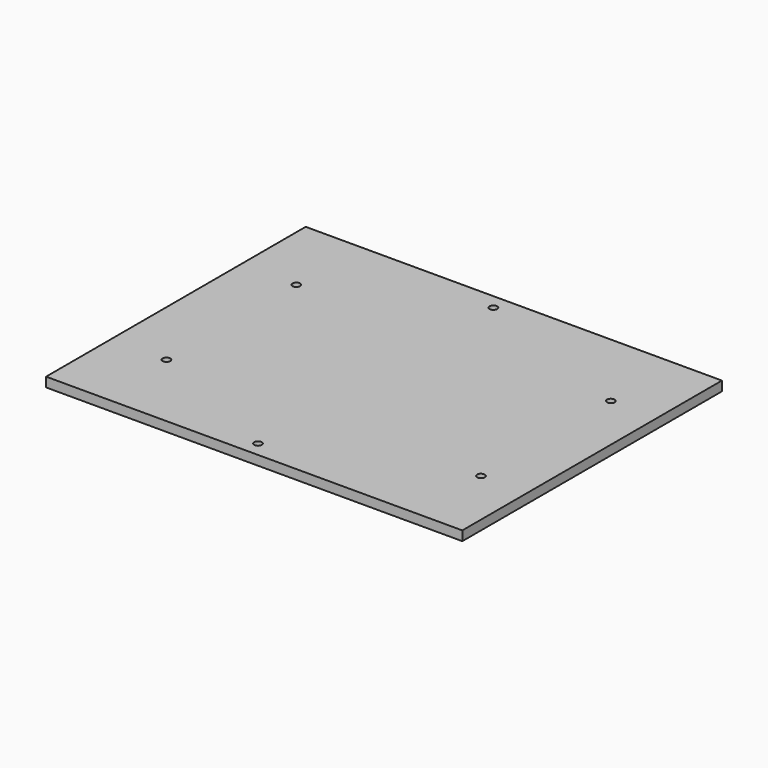
from build123d import *

# Parameters (mm, degrees)
F0_W     = 218.84298
F0_H     = 170.608
F1_DEPTH = 5
F2_D     = 4
F3_W     = 70
F3_H     = 8
F4_DEPTH = 50


with BuildPart() as f1:
    # F0 (on Top) → F1 (new body)
    with BuildSketch(Plane.XY):
        with Locations((4.32045, 0.03)):
            Rectangle(F0_W, F0_H)
    extrude(amount=F1_DEPTH)

    # F2 (through all)
    with Locations(Plane(origin=(0, 0, 0), x_dir=(1, 0, 0), z_dir=(0, 0, -1))):
        with Locations((-75.883113, 42.666), (0, 77.334), (89.466453, 42.666), (-75.883113, -42.666), (0, -77.334), (89.466453, -42.666)):
            Hole(F2_D / 2)

    # F3 (on Right) → F4 (join, symmetric)
    with BuildSketch(Plane.YZ):
        with Locations((0, -4)):
            Rectangle(F3_W, F3_H)
    extrude(amount=F4_DEPTH, both=True)


solid = f1.part
